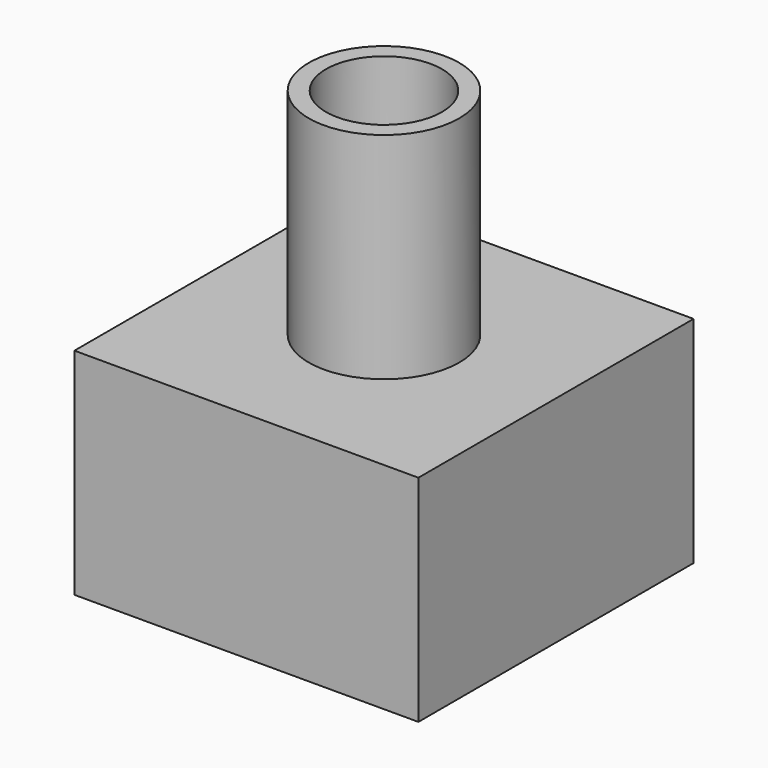
from build123d import *

# Parameters (mm, degrees)
BOX001_W          = 10
BOX001_H          = 10
BOX001_DEPTH      = 8
CYLINDER_R        = 2.7
CYLINDER_DEPTH    = 10
CYLINDER001_R     = 3.5
CYLINDER001_DEPTH = 10
BOX_W             = 16
BOX_H             = 16
BOX_DEPTH         = 10


with BuildPart() as cube001:
    # Box001 → Box001 (new body)
    with BuildSketch(Plane(origin=(-5, -5, 0), x_dir=(1, 0, 0), z_dir=(0, 0, 1))):
        with Locations((5, 5)):
            Rectangle(BOX001_W, BOX001_H)
    extrude(amount=BOX001_DEPTH)


with BuildPart() as cylinder:
    # Cylinder → Cylinder (new body)
    with BuildSketch(Plane.XY.offset(10)):
        Circle(CYLINDER_R)
    extrude(amount=CYLINDER_DEPTH)


with BuildPart() as cut:
    # Cylinder001 → Cylinder001 (new body)
    with BuildSketch(Plane.XY.offset(10)):
        Circle(CYLINDER001_R)
    extrude(amount=CYLINDER001_DEPTH)

    # Cut: cut Cylinder
    add(cylinder.part, mode=Mode.SUBTRACT)


with BuildPart() as cut001:
    # Box → Box (new body)
    with BuildSketch(Plane(origin=(-8, -8, 0), x_dir=(1, 0, 0), z_dir=(0, 0, 1))):
        with Locations((8, 8)):
            Rectangle(BOX_W, BOX_H)
    extrude(amount=BOX_DEPTH)

    # Fusion: union Cut
    add(cut.part)

    # Cut001: cut Cube001
    add(cube001.part, mode=Mode.SUBTRACT)


solid = cut001.part
